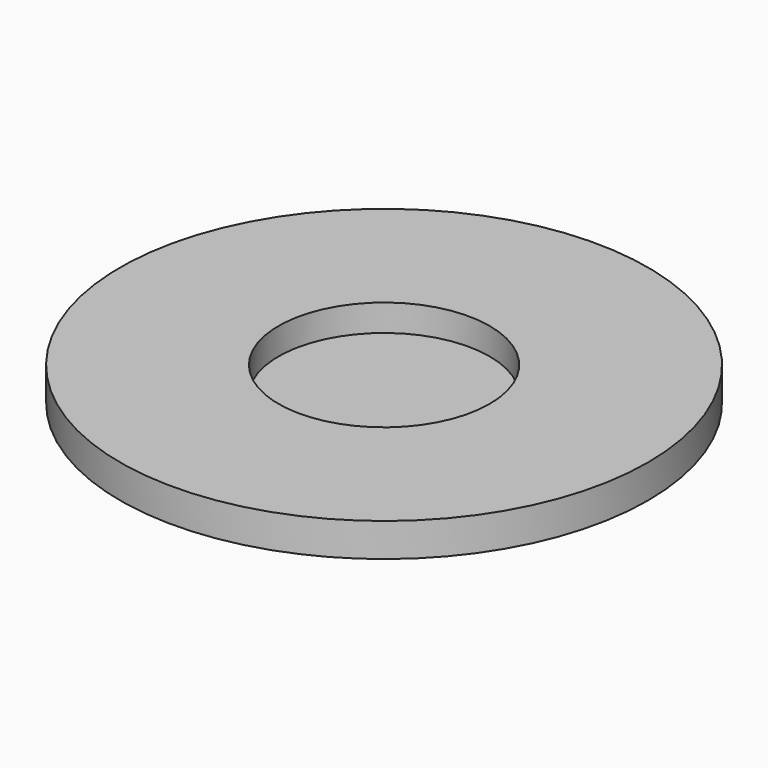
from build123d import *

# Parameters (mm, degrees)
F0_R     = 10
F0_R_2   = 4
F1_DEPTH = 1.27
F2_DEPTH = 0.254


with BuildPart() as f1:
    # F0 (on Top) → F1 (new body)
    with BuildSketch(Plane.XY):
        Circle(F0_R)
        Circle(F0_R_2, mode=Mode.SUBTRACT)
        Circle(F0_R)
        Circle(F0_R_2, mode=Mode.SUBTRACT)
    extrude(amount=F1_DEPTH)

    # F0 (on Top) → F2 (join)
    with BuildSketch(Plane.XY):
        Circle(F0_R_2)
    extrude(amount=F2_DEPTH)


solid = f1.part
